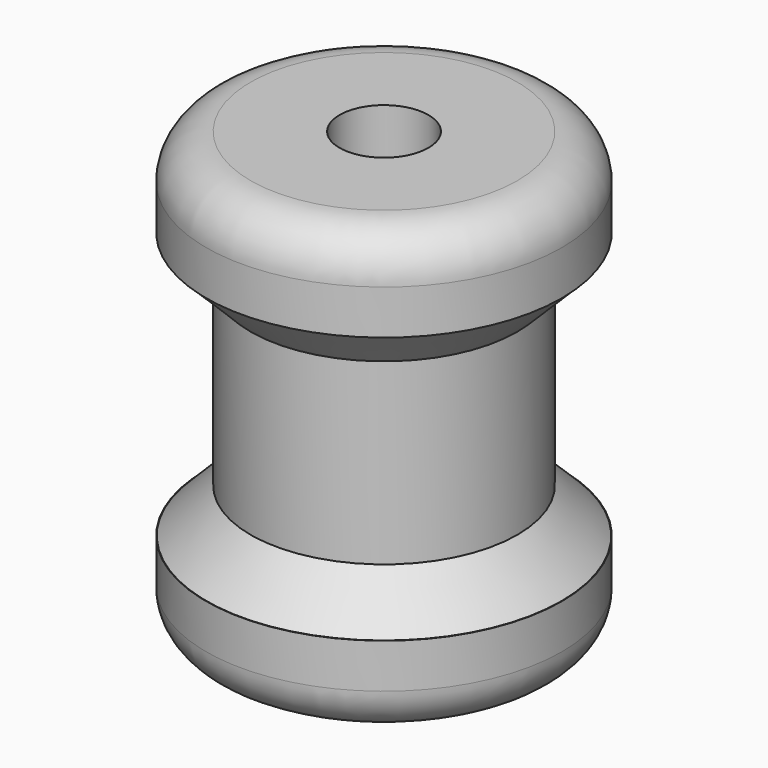
from build123d import *

# Parameters (mm, degrees)
SKETCH_R     = 4
PAD_DEPTH    = 2
SKETCH001_R  = 3
PAD001_DEPTH = 6
SKETCH002_R  = 4
PAD002_DEPTH = 2
SKETCH003_R  = 1
POCKET_DEPTH = 10
CHAMFER_SIZE = 0.99
FILLET_R     = 1


with BuildPart() as part:
    # Sketch → Pad (new body)
    with BuildSketch(Plane.XY):
        Circle(SKETCH_R)
    extrude(amount=PAD_DEPTH)

    # Sketch001 (on Face3 of Pad) → Pad001 (join)
    with BuildSketch(Plane.XY.offset(2)):
        Circle(SKETCH001_R)
    extrude(amount=PAD001_DEPTH)

    # Sketch002 (on Face5 of Pad001) → Pad002 (join)
    with BuildSketch(Plane.XY.offset(8)):
        Circle(SKETCH002_R)
    extrude(amount=PAD002_DEPTH)

    # Sketch003 (on Face3 of Pad002) → Pocket (cut)
    with BuildSketch(Plane.XY.offset(10)):
        Circle(SKETCH003_R)
    extrude(amount=-POCKET_DEPTH, mode=Mode.SUBTRACT)

    # Chamfer
    chamfer_edges = [part.edges().sort_by_distance(p)[0] for p in [
        (-3, 0, 8),
        (-3, 0, 2),
    ]]
    chamfer(chamfer_edges, length=CHAMFER_SIZE)

    # Fillet
    fillet_edges = [part.edges().sort_by_distance(p)[0] for p in [
        (-4, 0, 0),
        (-4, 0, 10),
    ]]
    fillet(fillet_edges, radius=FILLET_R)


solid = part.part
